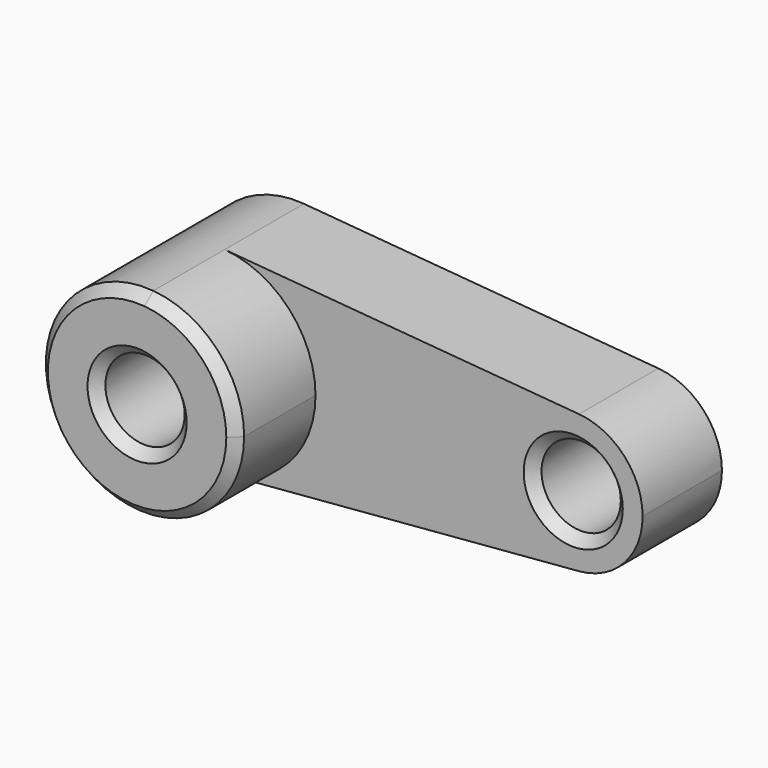
from build123d import *

# Parameters (mm, degrees)
F0_R     = 10
F1_DEPTH = 25
F2_DEPTH = 50
F3_SIZE  = 2.5


with BuildPart() as f1:
    # F0 (on Front) → F1 (new body)
    with BuildSketch(Plane.XZ):
        with BuildLine():
            ThreePointArc((2.083333, 24.913043), (18.399502, 16.92508), (25, 0))
            ThreePointArc((25, 0), (18.399502, -16.92508), (2.083333, -24.913043))
            Line((2.083333, -24.913043), (91.458333, -17.43913))
            ThreePointArc((91.458333, -17.43913), (72.5, 0), (91.458333, 17.43913))
            Line((91.458333, 17.43913), (2.083333, 24.913043))
        make_face()
        with BuildLine():
            ThreePointArc((2.083333, -24.913043), (18.399502, -16.92508), (25, 0))
            ThreePointArc((25, 0), (18.399502, 16.92508), (2.083333, 24.913043))
            ThreePointArc((2.083333, 24.913043), (-25, 0), (2.083333, -24.913043))
        make_face()
        Circle(F0_R, mode=Mode.SUBTRACT)
        with BuildLine():
            ThreePointArc((107.5, 0), (102.879651, 11.847556), (91.458333, 17.43913))
            ThreePointArc((91.458333, 17.43913), (72.5, 0), (91.458333, -17.43913))
            ThreePointArc((91.458333, -17.43913), (102.879651, -11.847556), (107.5, 0))
        make_face()
        with Locations((90, 0)):
            Circle(F0_R, mode=Mode.SUBTRACT)
    extrude(amount=F1_DEPTH)

    # F0 (on Front) → F2 (join)
    with BuildSketch(Plane.XZ):
        with BuildLine():
            ThreePointArc((2.083333, -24.913043), (18.399502, -16.92508), (25, 0))
            ThreePointArc((25, 0), (18.399502, 16.92508), (2.083333, 24.913043))
            ThreePointArc((2.083333, 24.913043), (-25, 0), (2.083333, -24.913043))
        make_face()
        Circle(F0_R, mode=Mode.SUBTRACT)
    extrude(amount=F2_DEPTH)

    # F3
    f3_edges = [f1.edges().sort_by_distance(p)[0] for p in [
        (-2.083333, -50, 24.913043),
        (-10, -50, 0),
        (80, -25, 0),
    ]]
    chamfer(f3_edges, length=F3_SIZE)


solid = f1.part
